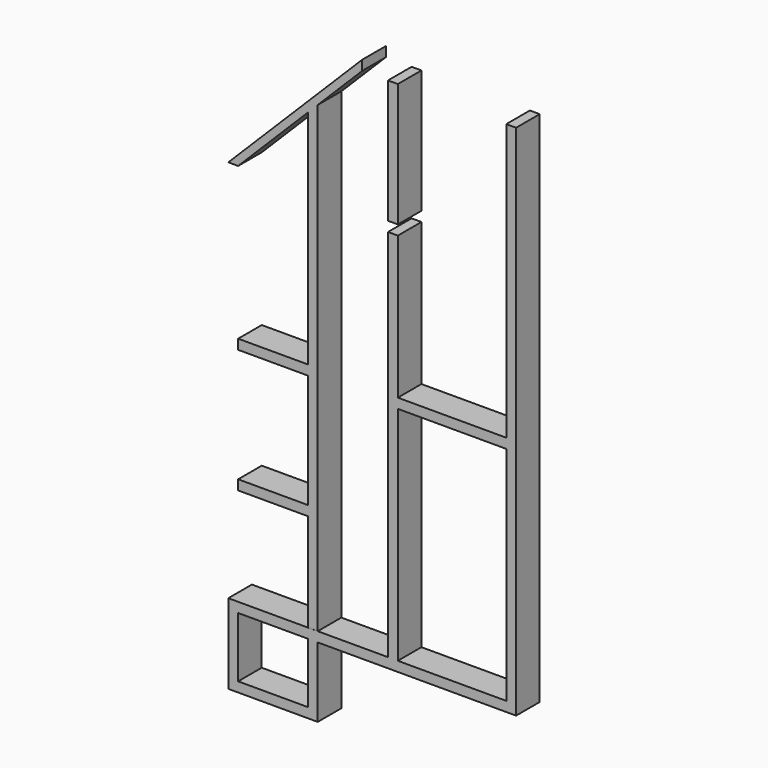
from build123d import *

# Parameters (mm, degrees)
F0_W     = 5.5995708565
F0_H     = 0.508
F0_W_2   = 3.602950362
F1_DEPTH = 1.524
F0_W_3   = 0.508
F0_H_2   = 6.3818677289


with BuildPart() as f1:
    # F0 (on Front) → F1 (new body)
    with BuildSketch(Plane.XZ):
        Polygon((8.7267208287, -9.8872872995), (9.2347208287, -9.8872872995), (9.2347208287, 16.3320887597), (8.7267208287, 16.3320887597), (8.7267208287, 9.9502210308), (8.7267208287, 9.4422210308), (8.7267208287, 2.0752214265), (8.7267208287, 1.5672214265), align=None)
        Polygon((9.2347208287, -10.3952872995), (9.2347208287, -9.8872872995), (8.7267208287, -9.8872872995), (3.1271499722, -9.8872872995), (2.6191499722, -9.8872872995), (-1.0082182566, -9.8872872995), (-1.5162182566, -9.8894794907), (-1.5162182566, -9.8872872995), (-5.1191686186, -9.8872872995), (-5.6271686186, -9.8872872995), (-5.6271686186, -10.3952872995), (-5.1191686186, -10.3952872995), (-1.5162182566, -10.3952872995), (-1.0082182566, -10.3952872995), align=None)
        Polygon((2.6191499722, -9.8872872995), (3.1271499722, -9.8872872995), (3.1271499722, 1.5672214265), (3.1271499722, 2.0752214265), (3.1271499722, 9.4422210308), (2.6191499722, 9.4422210308), (2.6191499722, 2.0752214265), (2.6191499722, 1.5672214265), align=None)
        with Locations((5.9269354004, 1.8212214265)):
            Rectangle(F0_W, F0_H)
        with Locations((-3.3176934376, -13.7570005892)):
            Rectangle(F0_W_2, F0_H)
        Polygon((-1.0082182566, -14.0110005892), (-1.0082182566, -10.3952872995), (-1.5162182566, -10.3952872995), (-1.5162182566, -13.5030005892), (-1.5162182566, -14.0110005892), align=None)
        Polygon((-5.1191686186, -13.5030005892), (-5.1191686186, -10.3952872995), (-5.6271686186, -10.3952872995), (-5.6271686186, -14.0110005892), (-5.1191686186, -14.0110005892), align=None)
    extrude(amount=F1_DEPTH)


with BuildPart() as f1b:
    # F0 (on Front) → F1, piece 2 (new body)
    with BuildSketch(Plane.XZ):
        Polygon((-1.5162182566, -9.8872872995), (-1.0082182566, -9.8872872995), (-1.0082182566, 1.5672214265), (-1.0082182566, 2.0752214265), (-1.0082182566, 9.4422210308), (-1.0082182566, 9.9502210308), (-1.0082182566, 14.0377301525), (-1.5162182566, 13.5297301525), (-1.5162182566, 9.9267797906), (-1.5162182566, 9.4187797906), (-1.5162182566, 2.0752214265), (-1.5162182566, 1.5672214265), (-1.5162182566, -4.3169227262), (-1.5162182566, -4.8249227262), align=None)
        with Locations((-3.3176934376, 1.8212214265)):
            Rectangle(F0_W_2, F0_H)
        with Locations((-3.3176934376, -4.5709227262)):
            Rectangle(F0_W_2, F0_H)
        Polygon((1.2861403506, 16.3320887597), (1.2861403506, 16.8400887597), (-5.6271686186, 9.9267797906), (-5.1191686186, 9.9267797906), (-1.5162182566, 13.5297301525), (-1.0082182566, 14.0377301525), align=None)
    extrude(amount=F1_DEPTH)


with BuildPart() as f1c:
    # F0 (on Front) → F1, piece 3 (new body)
    with BuildSketch(Plane.XZ):
        with Locations((2.8731499722, 13.1411548953)):
            Rectangle(F0_W_3, F0_H_2)
    extrude(amount=F1_DEPTH)


solid = Compound([f1.part, f1b.part, f1c.part])
